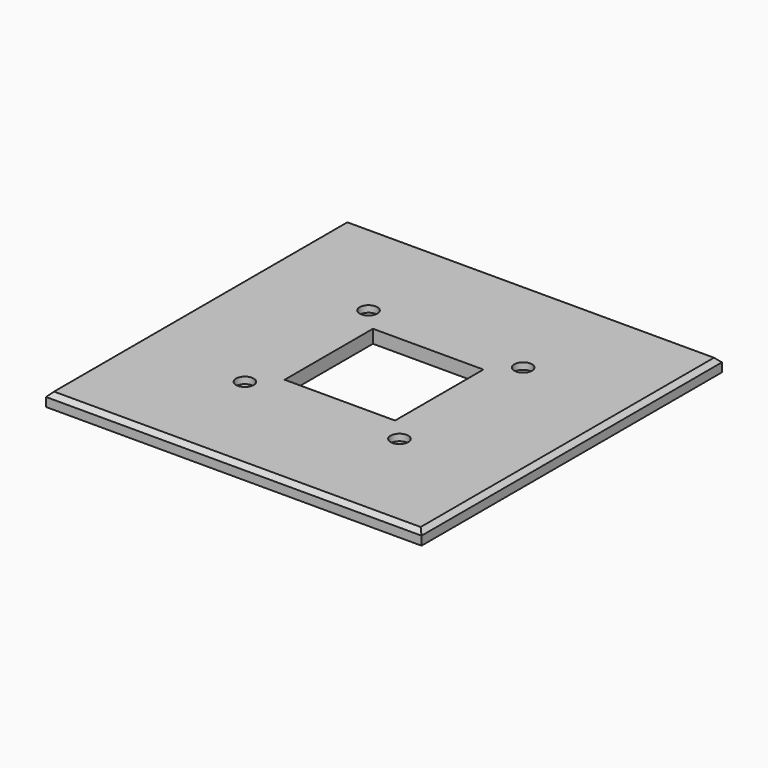
from build123d import *

# Parameters (mm, degrees)
SKETCH_W        = 85
SKETCH_H        = 85
PAD_DEPTH       = 3
SKETCH001_W     = 25
SKETCH001_H     = 25
POCKET_DEPTH    = 5
CHAMFER_SIZE    = 1
SKETCH002_R     = 2
POCKET001_DEPTH = 1.5


with BuildPart() as part:
    # Sketch → Pad (new body)
    with BuildSketch(Plane.XY):
        Rectangle(SKETCH_W, SKETCH_H)
    extrude(amount=PAD_DEPTH)

    # Sketch001 (on Face6 of Pad) → Pocket (cut)
    with BuildSketch(Plane.XY.offset(3)):
        Rectangle(SKETCH001_W, SKETCH001_H)
    extrude(amount=-POCKET_DEPTH, mode=Mode.SUBTRACT)

    # Chamfer
    chamfer_edges = [part.edges().sort_by_distance(p)[0] for p in [
        (42.5, 0, 3),
        (0, -42.5, 3),
        (-42.5, 0, 3),
        (0, 42.5, 3),
    ]]
    chamfer(chamfer_edges, length=CHAMFER_SIZE)

    # Sketch002 (on Face8 of Chamfer) → Pocket001 (cut)
    with BuildSketch(Plane.XY.offset(3)):
        with Locations((-17.5, 17.5)):
            Circle(SKETCH002_R)
        with Locations((-17.5, -17.5)):
            Circle(SKETCH002_R)
        with Locations((17.5, -17.5)):
            Circle(SKETCH002_R)
        with Locations((17.5, 17.5)):
            Circle(SKETCH002_R)
    extrude(amount=-POCKET001_DEPTH, mode=Mode.SUBTRACT)


solid = part.part
